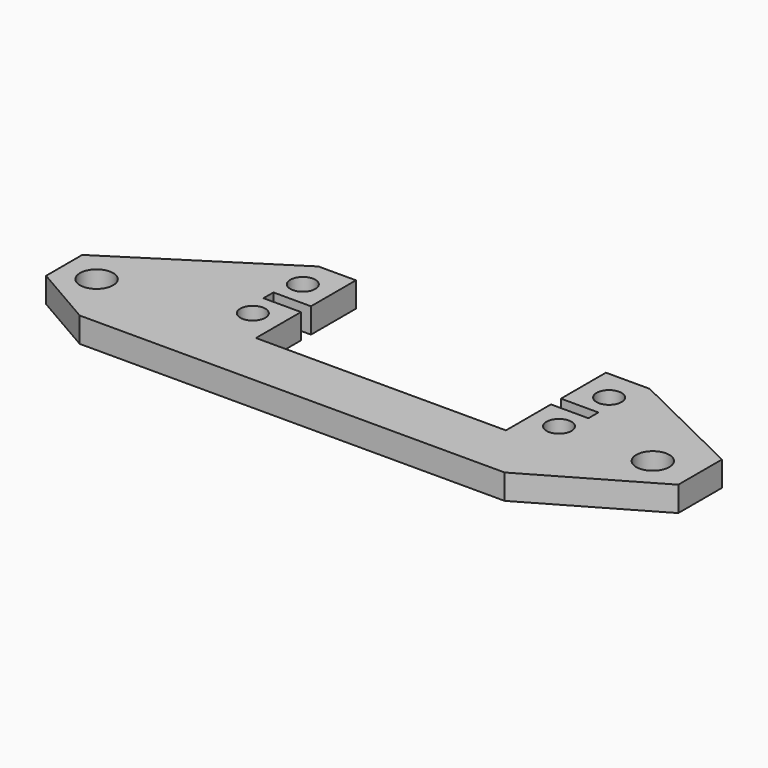
from build123d import *

# Parameters (mm, degrees)
SKETCH005_R   = 2
SKETCH005_R_2 = 2.65
PAD_DEPTH     = 4


with BuildPart() as part:
    # Sketch005 → Pad (new body)
    with BuildSketch(Plane.XY.offset(-3)):
        Polygon((-25, 10), (-19, 10), (-19, 1), (-25, 1), (-25, -1), (-19, -1), (-19, -10), (21, -10), (21, -1), (27, -1), (27, 1), (21, 1), (21, 10), (28, 10), (47, 0.7), (47, -8.030345), (28, -19), (-40, -19), (-50, -13.226497), (-50, -6), align=None)
        with Locations((-23.5, 5)):
            Circle(SKETCH005_R, mode=Mode.SUBTRACT)
        with Locations((-23.5, -5)):
            Circle(SKETCH005_R, mode=Mode.SUBTRACT)
        with Locations((25.5, 5)):
            Circle(SKETCH005_R, mode=Mode.SUBTRACT)
        with Locations((25.5, -5)):
            Circle(SKETCH005_R, mode=Mode.SUBTRACT)
        with Locations((40.5, -5)):
            Circle(SKETCH005_R_2, mode=Mode.SUBTRACT)
        with Locations((-44.5, -10)):
            Circle(SKETCH005_R_2, mode=Mode.SUBTRACT)
    extrude(amount=PAD_DEPTH)


solid = part.part
